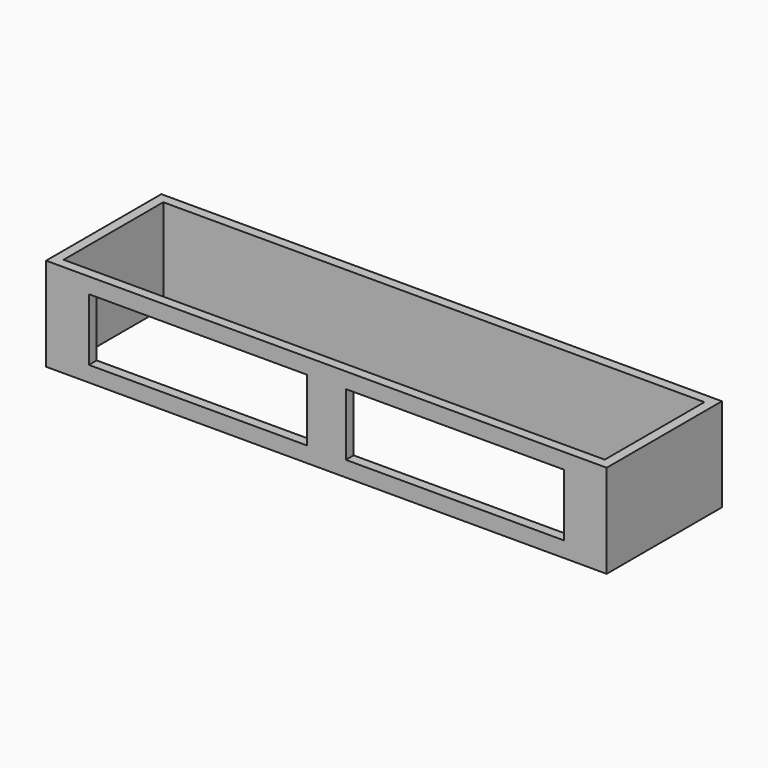
from build123d import *

# Parameters (mm, degrees)
F0_W     = 914.4
F0_H     = 15.875
F1_DEPTH = 152.4
F2_W     = 355.6
F2_H     = 101.6
F3_DEPTH = 25.4
F4_W     = 15.875
F4_H     = 152.4
F5_DEPTH = 203.2
F6_W     = 898.525
F6_H     = 152.4
F6_W_2   = 15.875
F7_DEPTH = 15.875


with BuildPart() as f1:
    # F0 (on Top) → F1 (new body)
    with BuildSketch(Plane.XY):
        with Locations((-9.282473, 39.729246)):
            Rectangle(F0_W, F0_H)
    extrude(amount=F1_DEPTH)

    # F2 (on face) → F3 (cut)
    with BuildSketch(Plane(origin=(0, 47.666746, 0), x_dir=(-1, 0, 0), z_dir=(0, 1, 0))):
        with Locations((-200.267527, 76.2)):
            Rectangle(F2_W, F2_H)
        with Locations((218.832473, 76.2)):
            Rectangle(F2_W, F2_H)
    extrude(amount=-F3_DEPTH, mode=Mode.SUBTRACT)

    # F4 (on face) → F5 (join)
    with BuildSketch(Plane(origin=(0, 47.666746, 0), x_dir=(-1, 0, 0), z_dir=(0, 1, 0))):
        with Locations((-439.980027, 76.2)):
            Rectangle(F4_W, F4_H)
        with Locations((458.544973, 76.2)):
            Rectangle(F4_W, F4_H)
    extrude(amount=F5_DEPTH)

    # F6 (on face) → F7 (join)
    with BuildSketch(Plane(origin=(0, 250.866746, 0), x_dir=(-1, 0, 0), z_dir=(0, 1, 0))):
        with Locations((17.219973, 76.2)):
            Rectangle(F6_W, F6_H)
        with Locations((-439.980027, 76.2)):
            Rectangle(F6_W_2, F6_H)
    extrude(amount=F7_DEPTH)


solid = f1.part
